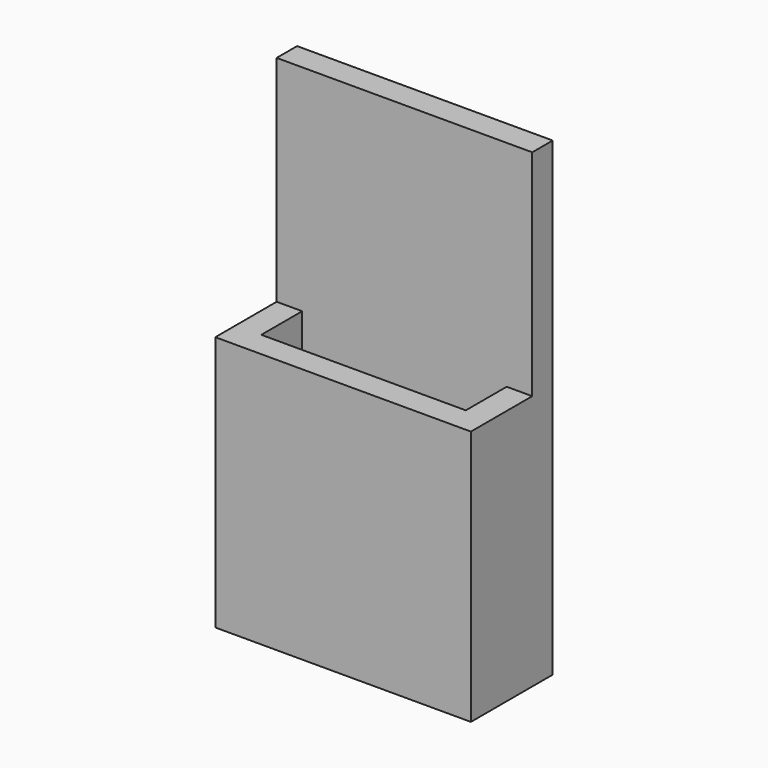
from build123d import *

# Parameters (mm, degrees)
F0_W     = 40
F0_H     = 10
F1_DEPTH = 5
F2_DEPTH = 92
F3_DEPTH = 50


with BuildPart() as f1:
    # F0 (on Top) → F1 (new body)
    with BuildSketch(Plane.XY):
        with Locations((-1.222661, 7.045219)):
            Rectangle(F0_W, F0_H)
    extrude(amount=F1_DEPTH)

    # F0 (on Top) → F2 (join)
    with BuildSketch(Plane.XY):
        Polygon((-26.222661, 12.045219), (-21.222661, 12.045219), (18.777339, 12.045219), (23.777339, 12.045219), (23.777339, 17.045219), (-26.222661, 17.045219), align=None)
    extrude(amount=F2_DEPTH)

    # F0 (on Top) → F3 (join)
    with BuildSketch(Plane.XY):
        Polygon((-21.222661, 2.045219), (-21.222661, 12.045219), (-26.222661, 12.045219), (-26.222661, -2.954781), (23.777339, -2.954781), (23.777339, 12.045219), (18.777339, 12.045219), (18.777339, 2.045219), align=None)
    extrude(amount=F3_DEPTH)


solid = f1.part
